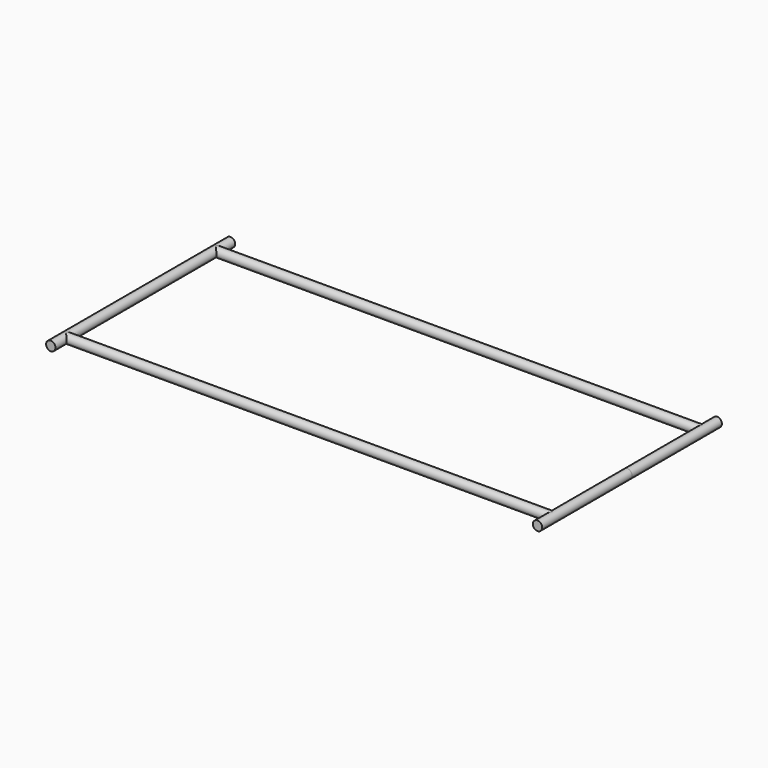
from build123d import *

# Parameters (mm, degrees)
F0_R          = 12.5
F1_DEPTH      = 300
F3_R          = 12.5
F5_R          = 12.5
F6_DEPTH      = 300
F6_DEPTH_BACK = 300


with BuildPart() as f1:
    # F0 (on Front) → F1 (new body, symmetric)
    with BuildSketch(Plane.XZ):
        Circle(F0_R)
    extrude(amount=F1_DEPTH, both=True)

    # F3 (on offset) → F4 (join, up to the next surface of F1)
    with BuildSketch(Plane.YZ.offset(1300)):
        with Locations((-250, 0)):
            Circle(F3_R)
        with Locations((250, 0)):
            Circle(F3_R)
    extrude(until=Until.NEXT, dir=(-1, 0, 0))

    # F5 (on Front) → F6 (join, two sides)
    with BuildSketch(Plane.XZ) as f6_sk:
        with Locations((1300, 0)):
            Circle(F5_R)
    extrude(amount=F6_DEPTH)
    extrude(f6_sk.sketch, amount=-F6_DEPTH_BACK)


solid = f1.part
